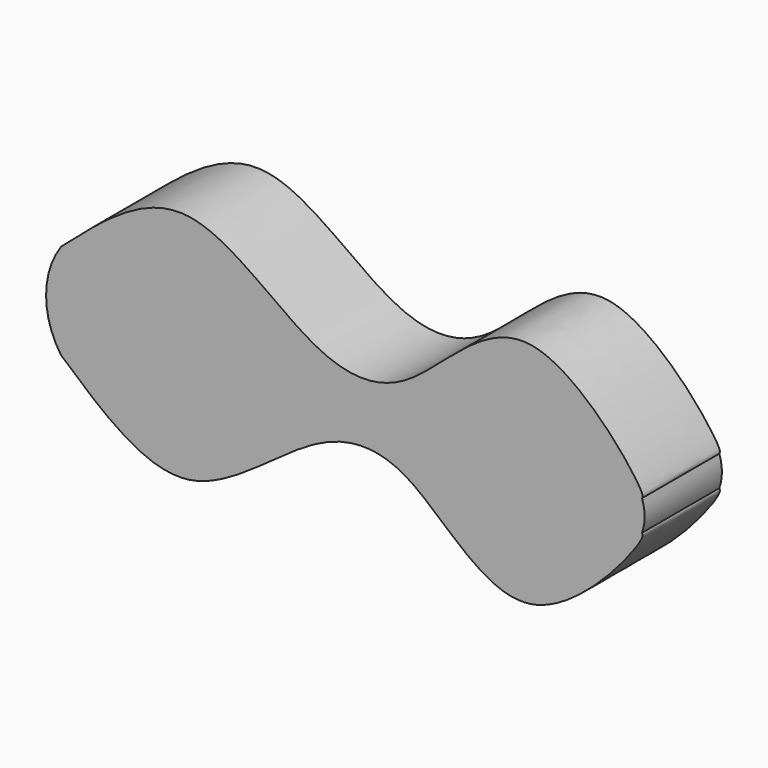
from build123d import *

# Parameters (mm, degrees)
F1_DEPTH = 25.4


with BuildPart() as f1:
    # F0 (on Front) → F1 (new body)
    with BuildSketch(Plane.XZ):
        with BuildLine():
            add(Edge.make_bspline(
                [(-75.6767690182, 12.5652002171), (-64.8536884913, 22.1223040031), (-42.9853380506, 41.4327114489), (-10.2813102873, 7.460903165), (17.1538859665, 5.9408629149), (45.7739297856, 46.60991524), (78.1446943538, 5.8059900261), (77.2381403194, 4.2301295907), (77.1046131849, 3.9980197325)],
                knots=[0, 0, 0, 0, 0.1995272819, 0.403150703, 0.563795811, 0.7634013691, 0.9651511813, 1, 1, 1, 1], degree=3))
            ThreePointArc((-75.6767690182, 12.5652002171), (-79.6144563367, 0), (-75.6767690182, -12.5652002171))
            add(Edge.make_bspline(
                [(-75.6767690182, -12.5652002171), (-64.8536884913, -22.1223040031), (-42.9853380506, -41.4327114489), (-10.2813102873, -7.460903165), (17.1538859665, -5.9408629149), (45.7739297856, -46.60991524), (78.1446943538, -5.8059900261), (77.2381403194, -4.2301295907), (77.1046131849, -3.9980197325)],
                knots=[0, 0, 0, 0, 0.1995272819, 0.403150703, 0.563795811, 0.7634013691, 0.9651511813, 1, 1, 1, 1], degree=3))
            ThreePointArc((77.1046131849, -3.9980197325), (77.796380829, 0), (77.1046131849, 3.9980197325))
        make_face()
    extrude(amount=F1_DEPTH)


solid = f1.part
